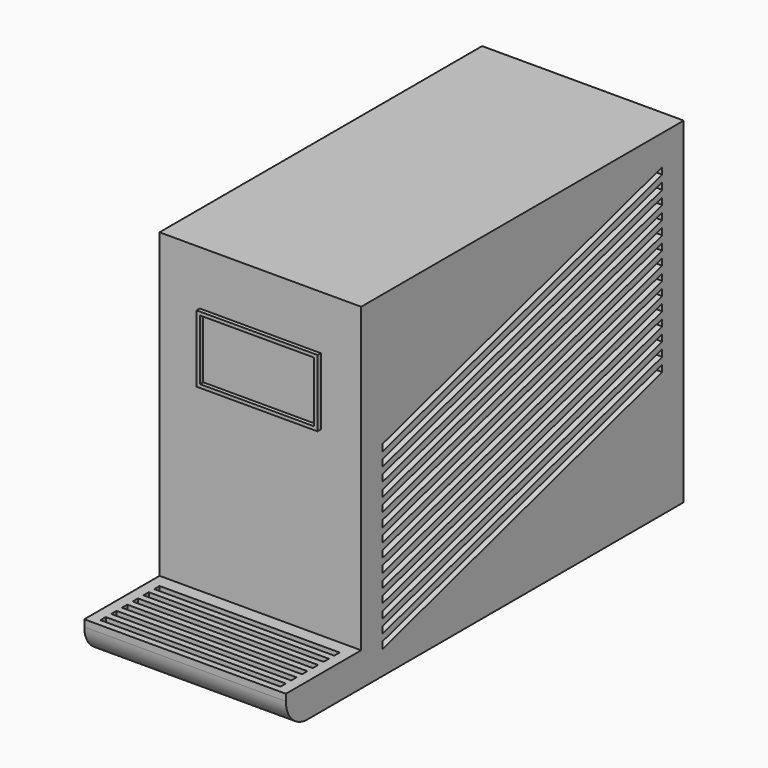
from build123d import *

# Parameters (mm, degrees)
F0_W      = 38.1
F0_H      = 76.2
F1_DEPTH  = 63.5
F3_R      = 2.54
F4_DEPTH  = 1.27
F6_DEPTH  = 25.4
F8_DEPTH  = 38.1
F9_W      = 38.1
F9_H      = 17.78
F10_DEPTH = 1.27
F11_W     = 34.036
F11_H     = 1.27
F12_DEPTH = 2.54
F2_W      = 22.86
F2_H      = 12.7
F2_W_2    = 21.59
F2_H_2    = 11.43
F13_DEPTH = 0.762


with BuildPart() as f1:
    # F0 (on Top) → F1 (new body)
    with BuildSketch(Plane.XY):
        Rectangle(F0_W, F0_H)
    extrude(amount=F1_DEPTH)

    # F3 (on face) → F4 (join)
    with BuildSketch(Plane(origin=(0, 0, 0), x_dir=(1, 0, 0), z_dir=(0, 0, -1))):
        with Locations((-12.7, 31.75)):
            Circle(F3_R)
        with Locations((12.7, 31.75)):
            Circle(F3_R)
        with Locations((-12.7, -31.75)):
            Circle(F3_R)
        with Locations((12.7, -31.75)):
            Circle(F3_R)
    extrude(amount=F4_DEPTH)

    # F5 (on face) → F6 (cut)
    with BuildSketch(Plane.YZ.offset(19.05)):
        Polygon((33.02, 57.846099), (-33.02, 38.635515), (-33.02, 37.365515), (33.02, 56.576099), align=None)
        Polygon((-33.02, 25.990401), (-33.02, 24.720401), (33.02, 43.930985), (33.02, 45.200985), align=None)
        Polygon((-33.02, 28.530401), (-33.02, 27.260401), (33.02, 46.470985), (33.02, 47.740985), align=None)
        Polygon((-33.02, 31.042958), (-33.02, 29.772958), (33.02, 48.983542), (33.02, 50.253542), align=None)
        Polygon((-33.02, 33.582958), (-33.02, 32.312958), (33.02, 51.523542), (33.02, 52.793542), align=None)
        Polygon((-33.02, 36.095515), (-33.02, 34.825515), (33.02, 54.036099), (33.02, 55.306099), align=None)
        Polygon((33.02, 42.688428), (-33.02, 23.477843), (-33.02, 22.207843), (33.02, 41.418428), align=None)
        Polygon((-33.02, 20.937843), (-33.02, 19.667843), (33.02, 38.878428), (33.02, 40.148428), align=None)
        Polygon((-33.02, 15.885286), (-33.02, 14.615286), (33.02, 33.825871), (33.02, 35.095871), align=None)
        Polygon((-33.02, 18.425286), (-33.02, 17.155286), (33.02, 36.365871), (33.02, 37.635871), align=None)
        Polygon((-33.02, 10.832729), (-33.02, 9.562729), (33.02, 28.773313), (33.02, 30.043313), align=None)
        Polygon((-33.02, 13.372729), (-33.02, 12.102729), (33.02, 31.313313), (33.02, 32.583313), align=None)
        Polygon((-33.02, 5.780172), (-33.02, 4.510172), (33.02, 23.720756), (33.02, 24.990756), align=None)
        Polygon((-33.02, 8.320172), (-33.02, 7.050172), (33.02, 26.260756), (33.02, 27.530756), align=None)
    extrude(amount=-F6_DEPTH, mode=Mode.SUBTRACT)

    # F7 (on face) → F8 (join)
    with BuildSketch(Plane(origin=(-19.05, 0, 0), x_dir=(0, -1, 0), z_dir=(-1, 0, 0))):
        with BuildLine():
            Line((38.1, 5.08), (38.1, 0))
            Line((38.1, 0), (50.8, 0))
            ThreePointArc((50.8, 0), (54.392102, 1.487898), (55.88, 5.08))
            Line((55.88, 5.08), (50.8, 5.08))
            Line((50.8, 5.08), (38.1, 5.08))
        make_face()
    extrude(amount=-F8_DEPTH)

    # F9 (on face) → F10 (join)
    with BuildSketch(Plane.XY.offset(5.08)):
        with Locations((0, -46.99)):
            Rectangle(F9_W, F9_H)
    extrude(amount=F10_DEPTH)

    # F11 (on face) → F12 (cut)
    with BuildSketch(Plane.XY.offset(6.35)):
        with Locations((0, -41.275)):
            Rectangle(F11_W, F11_H)
        Polygon((17.018, -43.269459), (17.018, -43.18), (-17.018, -43.18), (-17.018, -44.45), (17.018, -44.45), align=None)
        with Locations((0, -46.355)):
            Rectangle(F11_W, F11_H)
        with Locations((0, -48.895)):
            Rectangle(F11_W, F11_H)
        with Locations((0, -51.435)):
            Rectangle(F11_W, F11_H)
        with Locations((0, -53.975)):
            Rectangle(F11_W, F11_H)
    extrude(amount=-F12_DEPTH, mode=Mode.SUBTRACT)

    # F2 (on face) → F13 (join)
    with BuildSketch(Plane.XZ.offset(38.1)):
        with Locations((0, 46.947837)):
            Rectangle(F2_W, F2_H)
        with Locations((0, 46.947837)):
            Rectangle(F2_W_2, F2_H_2, mode=Mode.SUBTRACT)
    extrude(amount=F13_DEPTH)


solid = f1.part
